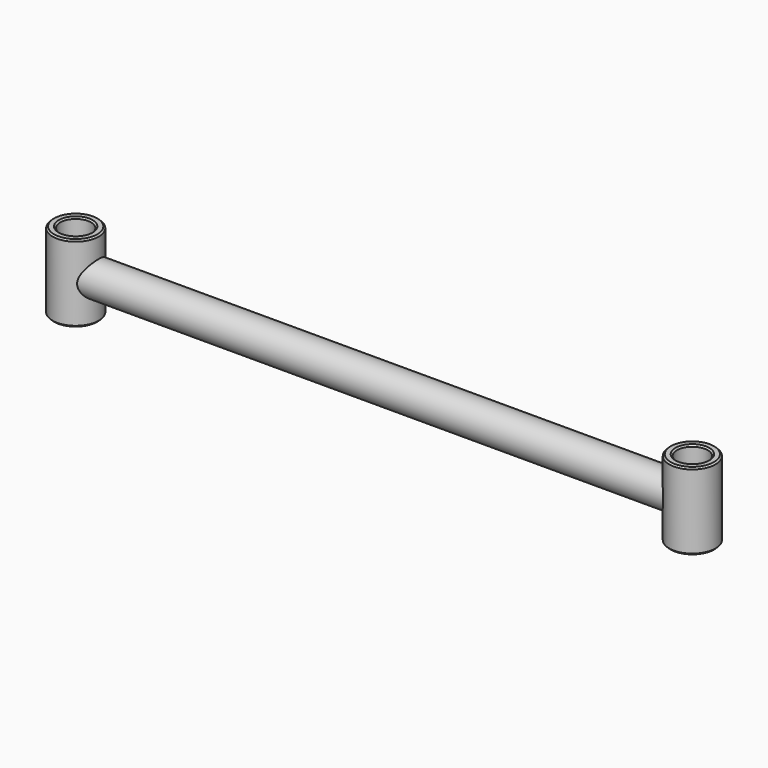
from build123d import *

# Parameters (mm, degrees)
F0_R     = 19.05
F1_DEPTH = 63.5
F3_R     = 14.2875
F5_R     = 12.7
F6_DEPTH = 63.5
F7_SIZE  = 1.27


with BuildPart() as f1:
    # F0 (on Top) → F1 (new body)
    with BuildSketch(Plane.XY):
        Circle(F0_R)
        with Locations((508, 0)):
            Circle(F0_R)
    extrude(amount=F1_DEPTH)

    # F4: sweep along a path in F2
    with BuildLine(Plane.XZ) as f4_path:
        Line((0, 31.75), (508, 31.75))
    # F3 (on Right) → F4 (sweep)
    with BuildSketch(Plane.YZ):
        with Locations((0, 31.75)):
            Circle(F3_R)
    sweep(path=f4_path.line)

    # F5 (on face) → F6 (cut)
    with BuildSketch(Plane.XY.offset(63.5)):
        Circle(F5_R)
        with Locations((508, 0)):
            Circle(F5_R)
    extrude(amount=-F6_DEPTH, mode=Mode.SUBTRACT)

    # F7
    f7_edges = [f1.edges().sort_by_distance(p)[0] for p in [
        (-19.05, 0, 63.5),
        (-12.7, 0, 63.5),
        (-19.05, 0, 0),
        (-12.7, 0, 0),
        (488.95, 0, 0),
        (495.3, 0, 0),
        (495.3, 0, 63.5),
        (488.95, 0, 63.5),
    ]]
    chamfer(f7_edges, length=F7_SIZE)


solid = f1.part
